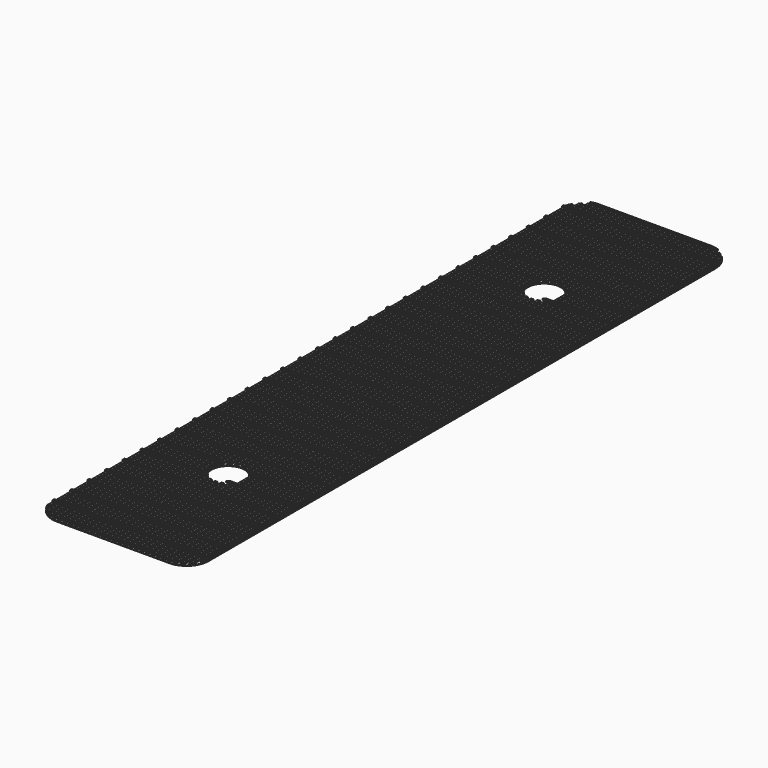
from build123d import *

# Parameters (mm, degrees)
CYLINDER001_R     = 3
CYLINDER001_DEPTH = 10
CYLINDER_R        = 3
CYLINDER_DEPTH    = 10
BOX050_W          = 28.5
BOX050_H          = 123.5
BOX050_DEPTH      = 10
FILLET006_R       = 4
BOX051_W          = 31
BOX051_H          = 126
BOX051_DEPTH      = 10
BOX052_W          = 28.5
BOX052_H          = 123.5
BOX052_DEPTH      = 0.1
BOX048_W          = 28.5
BOX048_H          = 0.4
BOX048_DEPTH      = 0.2
BOX045_W          = 28.5
BOX045_H          = 0.4
BOX045_DEPTH      = 0.2
BOX047_W          = 28.5
BOX047_H          = 0.4
BOX047_DEPTH      = 0.2
BOX043_W          = 28.5
BOX043_H          = 0.4
BOX043_DEPTH      = 0.2
BOX044_W          = 28.5
BOX044_H          = 0.4
BOX044_DEPTH      = 0.2
BOX046_W          = 28.5
BOX046_H          = 0.4
BOX046_DEPTH      = 0.2
BOX041_W          = 28.5
BOX041_H          = 0.4
BOX041_DEPTH      = 0.2
BOX042_W          = 28.5
BOX042_H          = 0.4
BOX042_DEPTH      = 0.2
BOX040_W          = 28.5
BOX040_H          = 0.4
BOX040_DEPTH      = 0.2
BOX039_W          = 28.5
BOX039_H          = 0.4
BOX039_DEPTH      = 0.2
BOX038_W          = 28.5
BOX038_H          = 0.4
BOX038_DEPTH      = 0.2
BOX049_W          = 28.5
BOX049_H          = 0.4
BOX049_DEPTH      = 0.2
BOX020_W          = 0.4
BOX020_H          = 124
BOX020_DEPTH      = 0.2
BOX018_W          = 0.4
BOX018_H          = 124
BOX018_DEPTH      = 0.2
BOX019_W          = 0.4
BOX019_H          = 124
BOX019_DEPTH      = 0.2
BOX017_W          = 0.4
BOX017_H          = 124
BOX017_DEPTH      = 0.2
BOX028_W          = 0.4
BOX028_H          = 124
BOX028_DEPTH      = 0.2
BOX027_W          = 0.4
BOX027_H          = 124
BOX027_DEPTH      = 0.2
BOX026_W          = 0.4
BOX026_H          = 124
BOX026_DEPTH      = 0.2
BOX025_W          = 0.4
BOX025_H          = 124
BOX025_DEPTH      = 0.2
BOX021_W          = 0.4
BOX021_H          = 124
BOX021_DEPTH      = 0.2
BOX024_W          = 0.4
BOX024_H          = 124
BOX024_DEPTH      = 0.2
BOX022_W          = 0.4
BOX022_H          = 124
BOX022_DEPTH      = 0.2
BOX023_W          = 0.4
BOX023_H          = 124
BOX023_DEPTH      = 0.2
BOX031_W          = 0.4
BOX031_H          = 124
BOX031_DEPTH      = 0.2
BOX029_W          = 0.4
BOX029_H          = 124
BOX029_DEPTH      = 0.2
BOX030_W          = 0.4
BOX030_H          = 124
BOX030_DEPTH      = 0.2
BOX032_W          = 0.4
BOX032_H          = 124
BOX032_DEPTH      = 0.2
BOX036_W          = 0.4
BOX036_H          = 124
BOX036_DEPTH      = 0.2
BOX035_W          = 0.4
BOX035_H          = 124
BOX035_DEPTH      = 0.2
BOX034_W          = 0.4
BOX034_H          = 124
BOX034_DEPTH      = 0.2
BOX033_W          = 0.4
BOX033_H          = 124
BOX033_DEPTH      = 0.2
BOX037_W          = 0.4
BOX037_H          = 124
BOX037_DEPTH      = 0.2
BOX016_W          = 0.4
BOX016_H          = 124
BOX016_DEPTH      = 0.2
BOX014_W          = 0.4
BOX014_H          = 124
BOX014_DEPTH      = 0.2
BOX015_W          = 0.4
BOX015_H          = 124
BOX015_DEPTH      = 0.2
BOX013_W          = 0.4
BOX013_H          = 124
BOX013_DEPTH      = 0.2
BOX010_W          = 0.4
BOX010_H          = 124
BOX010_DEPTH      = 0.2
BOX012_W          = 0.4
BOX012_H          = 124
BOX012_DEPTH      = 0.2
BOX011_W          = 0.4
BOX011_H          = 124
BOX011_DEPTH      = 0.2
BOX009_W          = 0.4
BOX009_H          = 124
BOX009_DEPTH      = 0.2


with BuildPart() as cylinder001:
    # Cylinder001 → Cylinder001 (new body)
    with BuildSketch(Plane(origin=(22.5, 120.5, -3), x_dir=(1, 0, 0), z_dir=(0, 0, 1))):
        Circle(CYLINDER001_R)
    extrude(amount=CYLINDER001_DEPTH)


with BuildPart() as fusion021:
    # Cylinder → Cylinder (new body)
    with BuildSketch(Plane(origin=(22.5, 48.5, -3), x_dir=(1, 0, 0), z_dir=(0, 0, 1))):
        Circle(CYLINDER_R)
    extrude(amount=CYLINDER_DEPTH)

    # Fusion021: union Cylinder001
    add(cylinder001.part)


with BuildPart() as fillet006:
    # Box050 → Box050 (new body)
    with BuildSketch(Plane(origin=(8.25, 22.25, 0), x_dir=(1, 0, 0), z_dir=(0, 0, 1))):
        with Locations((14.25, 61.75)):
            Rectangle(BOX050_W, BOX050_H)
    extrude(amount=BOX050_DEPTH)

    # Fillet006
    fillet006_edges = [fillet006.edges().sort_by_distance(p)[0] for p in [
        (8.25, 22.25, 5),
        (8.25, 145.75, 5),
        (36.75, 22.25, 5),
        (36.75, 145.75, 5),
    ]]
    fillet(fillet006_edges, radius=FILLET006_R)


with BuildPart() as cut007:
    # Box051 → Box051 (new body)
    with BuildSketch(Plane(origin=(7, 21, 0), x_dir=(1, 0, 0), z_dir=(0, 0, 1))):
        with Locations((15.5, 63)):
            Rectangle(BOX051_W, BOX051_H)
    extrude(amount=BOX051_DEPTH)

    # Cut007: cut Fillet006
    add(fillet006.part, mode=Mode.SUBTRACT)


with BuildPart() as cube049:
    # Box052 → Box052 (new body)
    with BuildSketch(Plane(origin=(8.25, 22.25, 0), x_dir=(1, 0, 0), z_dir=(0, 0, 1))):
        with Locations((14.25, 61.75)):
            Rectangle(BOX052_W, BOX052_H)
    extrude(amount=BOX052_DEPTH)


with BuildPart() as cube045:
    # Box048 → Box048 (new body)
    with BuildSketch(Plane(origin=(8.5, 142, 0.3), x_dir=(1, 0, 0), z_dir=(0, 0, 1))):
        with Locations((14.25, 0.2)):
            Rectangle(BOX048_W, BOX048_H)
    extrude(amount=BOX048_DEPTH)


with BuildPart() as cube042:
    # Box045 → Box045 (new body)
    with BuildSketch(Plane(origin=(8.5, 34, 0.3), x_dir=(1, 0, 0), z_dir=(0, 0, 1))):
        with Locations((14.25, 0.2)):
            Rectangle(BOX045_W, BOX045_H)
    extrude(amount=BOX045_DEPTH)


with BuildPart() as cube044:
    # Box047 → Box047 (new body)
    with BuildSketch(Plane(origin=(8.5, 38, 0.3), x_dir=(1, 0, 0), z_dir=(0, 0, 1))):
        with Locations((14.25, 0.2)):
            Rectangle(BOX047_W, BOX047_H)
    extrude(amount=BOX047_DEPTH)


with BuildPart() as cube040:
    # Box043 → Box043 (new body)
    with BuildSketch(Plane(origin=(8.5, 30, 0.3), x_dir=(1, 0, 0), z_dir=(0, 0, 1))):
        with Locations((14.25, 0.2)):
            Rectangle(BOX043_W, BOX043_H)
    extrude(amount=BOX043_DEPTH)


with BuildPart() as cube041:
    # Box044 → Box044 (new body)
    with BuildSketch(Plane(origin=(8.5, 26, 0.3), x_dir=(1, 0, 0), z_dir=(0, 0, 1))):
        with Locations((14.25, 0.2)):
            Rectangle(BOX044_W, BOX044_H)
    extrude(amount=BOX044_DEPTH)


with BuildPart() as cube043:
    # Box046 → Box046 (new body)
    with BuildSketch(Plane(origin=(8.5, 22, 0.3), x_dir=(1, 0, 0), z_dir=(0, 0, 1))):
        with Locations((14.25, 0.2)):
            Rectangle(BOX046_W, BOX046_H)
    extrude(amount=BOX046_DEPTH)


with BuildPart() as fusion017:
    # Fusion017 base: copy of Cube043
    add(cube043.part)

    # Fusion017: union Cube042, Cube044, Cube040, Cube041
    add(cube042.part)
    add(cube044.part)
    add(cube040.part)
    add(cube041.part)


with BuildPart() as fusion017_1:
    # Fusion017 placement: moved
    add(fusion017.part.moved(Location((0, 20, 0))))


with BuildPart() as cube038:
    # Box041 → Box041 (new body)
    with BuildSketch(Plane(origin=(8.5, 34, 0.3), x_dir=(1, 0, 0), z_dir=(0, 0, 1))):
        with Locations((14.25, 0.2)):
            Rectangle(BOX041_W, BOX041_H)
    extrude(amount=BOX041_DEPTH)


with BuildPart() as cube039:
    # Box042 → Box042 (new body)
    with BuildSketch(Plane(origin=(8.5, 38, 0.3), x_dir=(1, 0, 0), z_dir=(0, 0, 1))):
        with Locations((14.25, 0.2)):
            Rectangle(BOX042_W, BOX042_H)
    extrude(amount=BOX042_DEPTH)


with BuildPart() as cube037:
    # Box040 → Box040 (new body)
    with BuildSketch(Plane(origin=(8.5, 30, 0.3), x_dir=(1, 0, 0), z_dir=(0, 0, 1))):
        with Locations((14.25, 0.2)):
            Rectangle(BOX040_W, BOX040_H)
    extrude(amount=BOX040_DEPTH)


with BuildPart() as cube036:
    # Box039 → Box039 (new body)
    with BuildSketch(Plane(origin=(8.5, 26, 0.3), x_dir=(1, 0, 0), z_dir=(0, 0, 1))):
        with Locations((14.25, 0.2)):
            Rectangle(BOX039_W, BOX039_H)
    extrude(amount=BOX039_DEPTH)


with BuildPart() as cube035:
    # Box038 → Box038 (new body)
    with BuildSketch(Plane(origin=(8.5, 22, 0.3), x_dir=(1, 0, 0), z_dir=(0, 0, 1))):
        with Locations((14.25, 0.2)):
            Rectangle(BOX038_W, BOX038_H)
    extrude(amount=BOX038_DEPTH)


with BuildPart() as fusion018:
    # Fusion019 base: copy of Cube035
    add(cube035.part)

    # Fusion019: union Cube038, Cube039, Cube037, Cube036
    add(cube038.part)
    add(cube039.part)
    add(cube037.part)
    add(cube036.part)

    # Fusion018: union Fusion017
    add(fusion017_1.part)


with BuildPart() as fusion018_1:
    # Fusion018 placement: moved
    add(fusion018.part.moved(Location((0, 80, 0))))


with BuildPart() as fusion012:
    # Fusion012 base: copy of Cube043
    add(cube043.part)

    # Fusion012: union Cube042, Cube044, Cube040, Cube041
    add(cube042.part)
    add(cube044.part)
    add(cube040.part)
    add(cube041.part)


with BuildPart() as fusion012_1:
    # Fusion012 placement: moved
    add(fusion012.part.moved(Location((0, 20, 0))))


with BuildPart() as fusion013:
    # Fusion011 base: copy of Cube035
    add(cube035.part)

    # Fusion011: union Cube038, Cube039, Cube037, Cube036
    add(cube038.part)
    add(cube039.part)
    add(cube037.part)
    add(cube036.part)

    # Fusion013: union Fusion012
    add(fusion012_1.part)


with BuildPart() as fusion013_1:
    # Fusion013 placement: moved
    add(fusion013.part.moved(Location((0, 40, 0))))


with BuildPart() as cube046:
    # Box049 → Box049 (new body)
    with BuildSketch(Plane(origin=(8.5, 145.5, 0.3), x_dir=(1, 0, 0), z_dir=(0, 0, 1))):
        with Locations((14.25, 0.2)):
            Rectangle(BOX049_W, BOX049_H)
    extrude(amount=BOX049_DEPTH)


with BuildPart() as fusion014:
    # Fusion014 base: copy of Cube043
    add(cube043.part)

    # Fusion014: union Cube042, Cube044, Cube040, Cube041
    add(cube042.part)
    add(cube044.part)
    add(cube040.part)
    add(cube041.part)


with BuildPart() as fusion014_1:
    # Fusion014 placement: moved
    add(fusion014.part.moved(Location((0, 20, 0))))


with BuildPart() as fusion015:
    # Fusion016 base: copy of Cube035
    add(cube035.part)

    # Fusion016: union Cube038, Cube039, Cube037, Cube036
    add(cube038.part)
    add(cube039.part)
    add(cube037.part)
    add(cube036.part)

    # Fusion015: union Fusion014
    add(fusion014_1.part)


with BuildPart() as cube017:
    # Box020 → Box020 (new body)
    with BuildSketch(Plane(origin=(35.5, 22, 0), x_dir=(1, 0, 0), z_dir=(0, 0, 1))):
        with Locations((0.2, 62)):
            Rectangle(BOX020_W, BOX020_H)
    extrude(amount=BOX020_DEPTH)


with BuildPart() as cube015:
    # Box018 → Box018 (new body)
    with BuildSketch(Plane(origin=(33.5, 22, 0), x_dir=(1, 0, 0), z_dir=(0, 0, 1))):
        with Locations((0.2, 62)):
            Rectangle(BOX018_W, BOX018_H)
    extrude(amount=BOX018_DEPTH)


with BuildPart() as cube016:
    # Box019 → Box019 (new body)
    with BuildSketch(Plane(origin=(34.5, 22, 0), x_dir=(1, 0, 0), z_dir=(0, 0, 1))):
        with Locations((0.2, 62)):
            Rectangle(BOX019_W, BOX019_H)
    extrude(amount=BOX019_DEPTH)


with BuildPart() as fusion005:
    # Box017 → Box017 (new body)
    with BuildSketch(Plane(origin=(36.5, 22, 0), x_dir=(1, 0, 0), z_dir=(0, 0, 1))):
        with Locations((0.2, 62)):
            Rectangle(BOX017_W, BOX017_H)
    extrude(amount=BOX017_DEPTH)

    # Fusion005: union Cube017, Cube015, Cube016
    add(cube017.part)
    add(cube015.part)
    add(cube016.part)


with BuildPart() as fusion005_1:
    # Fusion005 placement: moved
    add(fusion005.part.moved(Location((-8, 0, 0))))


with BuildPart() as cube025:
    # Box028 → Box028 (new body)
    with BuildSketch(Plane(origin=(35.5, 22, 0), x_dir=(1, 0, 0), z_dir=(0, 0, 1))):
        with Locations((0.2, 62)):
            Rectangle(BOX028_W, BOX028_H)
    extrude(amount=BOX028_DEPTH)


with BuildPart() as cube024:
    # Box027 → Box027 (new body)
    with BuildSketch(Plane(origin=(33.5, 22, 0), x_dir=(1, 0, 0), z_dir=(0, 0, 1))):
        with Locations((0.2, 62)):
            Rectangle(BOX027_W, BOX027_H)
    extrude(amount=BOX027_DEPTH)


with BuildPart() as cube023:
    # Box026 → Box026 (new body)
    with BuildSketch(Plane(origin=(34.5, 22, 0), x_dir=(1, 0, 0), z_dir=(0, 0, 1))):
        with Locations((0.2, 62)):
            Rectangle(BOX026_W, BOX026_H)
    extrude(amount=BOX026_DEPTH)


with BuildPart() as fusion007:
    # Box025 → Box025 (new body)
    with BuildSketch(Plane(origin=(36.5, 22, 0), x_dir=(1, 0, 0), z_dir=(0, 0, 1))):
        with Locations((0.2, 62)):
            Rectangle(BOX025_W, BOX025_H)
    extrude(amount=BOX025_DEPTH)

    # Fusion007: union Cube025, Cube024, Cube023
    add(cube025.part)
    add(cube024.part)
    add(cube023.part)


with BuildPart() as fusion007_1:
    # Fusion007 placement: moved
    add(fusion007.part.moved(Location((-16, 0, 0))))


with BuildPart() as cube018:
    # Box021 → Box021 (new body)
    with BuildSketch(Plane(origin=(35.5, 22, 0), x_dir=(1, 0, 0), z_dir=(0, 0, 1))):
        with Locations((0.2, 62)):
            Rectangle(BOX021_W, BOX021_H)
    extrude(amount=BOX021_DEPTH)


with BuildPart() as cube021:
    # Box024 → Box024 (new body)
    with BuildSketch(Plane(origin=(33.5, 22, 0), x_dir=(1, 0, 0), z_dir=(0, 0, 1))):
        with Locations((0.2, 62)):
            Rectangle(BOX024_W, BOX024_H)
    extrude(amount=BOX024_DEPTH)


with BuildPart() as cube019:
    # Box022 → Box022 (new body)
    with BuildSketch(Plane(origin=(34.5, 22, 0), x_dir=(1, 0, 0), z_dir=(0, 0, 1))):
        with Locations((0.2, 62)):
            Rectangle(BOX022_W, BOX022_H)
    extrude(amount=BOX022_DEPTH)


with BuildPart() as fusion006:
    # Box023 → Box023 (new body)
    with BuildSketch(Plane(origin=(36.5, 22, 0), x_dir=(1, 0, 0), z_dir=(0, 0, 1))):
        with Locations((0.2, 62)):
            Rectangle(BOX023_W, BOX023_H)
    extrude(amount=BOX023_DEPTH)

    # Fusion006: union Cube018, Cube021, Cube019
    add(cube018.part)
    add(cube021.part)
    add(cube019.part)


with BuildPart() as fusion006_1:
    # Fusion006 placement: moved
    add(fusion006.part.moved(Location((-12, 0, 0))))


with BuildPart() as cube028:
    # Box031 → Box031 (new body)
    with BuildSketch(Plane(origin=(35.5, 22, 0), x_dir=(1, 0, 0), z_dir=(0, 0, 1))):
        with Locations((0.2, 62)):
            Rectangle(BOX031_W, BOX031_H)
    extrude(amount=BOX031_DEPTH)


with BuildPart() as cube026:
    # Box029 → Box029 (new body)
    with BuildSketch(Plane(origin=(33.5, 22, 0), x_dir=(1, 0, 0), z_dir=(0, 0, 1))):
        with Locations((0.2, 62)):
            Rectangle(BOX029_W, BOX029_H)
    extrude(amount=BOX029_DEPTH)


with BuildPart() as cube027:
    # Box030 → Box030 (new body)
    with BuildSketch(Plane(origin=(34.5, 22, 0), x_dir=(1, 0, 0), z_dir=(0, 0, 1))):
        with Locations((0.2, 62)):
            Rectangle(BOX030_W, BOX030_H)
    extrude(amount=BOX030_DEPTH)


with BuildPart() as fusion008:
    # Box032 → Box032 (new body)
    with BuildSketch(Plane(origin=(36.5, 22, 0), x_dir=(1, 0, 0), z_dir=(0, 0, 1))):
        with Locations((0.2, 62)):
            Rectangle(BOX032_W, BOX032_H)
    extrude(amount=BOX032_DEPTH)

    # Fusion008: union Cube028, Cube026, Cube027
    add(cube028.part)
    add(cube026.part)
    add(cube027.part)


with BuildPart() as fusion008_1:
    # Fusion008 placement: moved
    add(fusion008.part.moved(Location((-20, 0, 0))))


with BuildPart() as cube033:
    # Box036 → Box036 (new body)
    with BuildSketch(Plane(origin=(35.5, 22, 0), x_dir=(1, 0, 0), z_dir=(0, 0, 1))):
        with Locations((0.2, 62)):
            Rectangle(BOX036_W, BOX036_H)
    extrude(amount=BOX036_DEPTH)


with BuildPart() as cube032:
    # Box035 → Box035 (new body)
    with BuildSketch(Plane(origin=(33.5, 22, 0), x_dir=(1, 0, 0), z_dir=(0, 0, 1))):
        with Locations((0.2, 62)):
            Rectangle(BOX035_W, BOX035_H)
    extrude(amount=BOX035_DEPTH)


with BuildPart() as cube031:
    # Box034 → Box034 (new body)
    with BuildSketch(Plane(origin=(34.5, 22, 0), x_dir=(1, 0, 0), z_dir=(0, 0, 1))):
        with Locations((0.2, 62)):
            Rectangle(BOX034_W, BOX034_H)
    extrude(amount=BOX034_DEPTH)


with BuildPart() as fusion009:
    # Box033 → Box033 (new body)
    with BuildSketch(Plane(origin=(36.5, 22, 0), x_dir=(1, 0, 0), z_dir=(0, 0, 1))):
        with Locations((0.2, 62)):
            Rectangle(BOX033_W, BOX033_H)
    extrude(amount=BOX033_DEPTH)

    # Fusion009: union Cube033, Cube032, Cube031
    add(cube033.part)
    add(cube032.part)
    add(cube031.part)


with BuildPart() as fusion009_1:
    # Fusion009 placement: moved
    add(fusion009.part.moved(Location((-24, 0, 0))))


with BuildPart() as cube034:
    # Box037 → Box037 (new body)
    with BuildSketch(Plane(origin=(8.5, 22, 0), x_dir=(1, 0, 0), z_dir=(0, 0, 1))):
        with Locations((0.2, 62)):
            Rectangle(BOX037_W, BOX037_H)
    extrude(amount=BOX037_DEPTH)


with BuildPart() as cube013:
    # Box016 → Box016 (new body)
    with BuildSketch(Plane(origin=(35.5, 22, 0), x_dir=(1, 0, 0), z_dir=(0, 0, 1))):
        with Locations((0.2, 62)):
            Rectangle(BOX016_W, BOX016_H)
    extrude(amount=BOX016_DEPTH)


with BuildPart() as cube011:
    # Box014 → Box014 (new body)
    with BuildSketch(Plane(origin=(33.5, 22, 0), x_dir=(1, 0, 0), z_dir=(0, 0, 1))):
        with Locations((0.2, 62)):
            Rectangle(BOX014_W, BOX014_H)
    extrude(amount=BOX014_DEPTH)


with BuildPart() as cube012:
    # Box015 → Box015 (new body)
    with BuildSketch(Plane(origin=(34.5, 22, 0), x_dir=(1, 0, 0), z_dir=(0, 0, 1))):
        with Locations((0.2, 62)):
            Rectangle(BOX015_W, BOX015_H)
    extrude(amount=BOX015_DEPTH)


with BuildPart() as fusion004:
    # Box013 → Box013 (new body)
    with BuildSketch(Plane(origin=(36.5, 22, 0), x_dir=(1, 0, 0), z_dir=(0, 0, 1))):
        with Locations((0.2, 62)):
            Rectangle(BOX013_W, BOX013_H)
    extrude(amount=BOX013_DEPTH)

    # Fusion004: union Cube013, Cube011, Cube012
    add(cube013.part)
    add(cube011.part)
    add(cube012.part)


with BuildPart() as fusion004_1:
    # Fusion004 placement: moved
    add(fusion004.part.moved(Location((-4, 0, 0))))


with BuildPart() as cube007:
    # Box010 → Box010 (new body)
    with BuildSketch(Plane(origin=(35.5, 22, 0), x_dir=(1, 0, 0), z_dir=(0, 0, 1))):
        with Locations((0.2, 62)):
            Rectangle(BOX010_W, BOX010_H)
    extrude(amount=BOX010_DEPTH)


with BuildPart() as cube009:
    # Box012 → Box012 (new body)
    with BuildSketch(Plane(origin=(33.5, 22, 0), x_dir=(1, 0, 0), z_dir=(0, 0, 1))):
        with Locations((0.2, 62)):
            Rectangle(BOX012_W, BOX012_H)
    extrude(amount=BOX012_DEPTH)


with BuildPart() as cube008:
    # Box011 → Box011 (new body)
    with BuildSketch(Plane(origin=(34.5, 22, 0), x_dir=(1, 0, 0), z_dir=(0, 0, 1))):
        with Locations((0.2, 62)):
            Rectangle(BOX011_W, BOX011_H)
    extrude(amount=BOX011_DEPTH)


with BuildPart() as cut009:
    # Box009 → Box009 (new body)
    with BuildSketch(Plane(origin=(36.5, 22, 0), x_dir=(1, 0, 0), z_dir=(0, 0, 1))):
        with Locations((0.2, 62)):
            Rectangle(BOX009_W, BOX009_H)
    extrude(amount=BOX009_DEPTH)

    # Fusion003: union Cube007, Cube009, Cube008
    add(cube007.part)
    add(cube009.part)
    add(cube008.part)

    # Fusion010: union Fusion005, Fusion007, Fusion006, Fusion008, Fusion009, Cube034, Fusion004
    add(fusion005_1.part)
    add(fusion007_1.part)
    add(fusion006_1.part)
    add(fusion008_1.part)
    add(fusion009_1.part)
    add(cube034.part)
    add(fusion004_1.part)

    # Fusion020: union Cube045, Fusion018, Fusion013, Cube046, Fusion015
    add(cube045.part)
    add(fusion018_1.part)
    add(fusion013_1.part)
    add(cube046.part)
    add(fusion015.part)


with BuildPart() as cut009_1:
    # Fusion020 placement: moved
    add(cut009.part.moved(Location((0, 0, 0.2))))

    # Fusion022: union Cube049
    add(cube049.part)

    # Cut008: cut Cut007
    add(cut007.part, mode=Mode.SUBTRACT)

    # Cut009: cut Fusion021
    add(fusion021.part, mode=Mode.SUBTRACT)


solid = cut009_1.part
